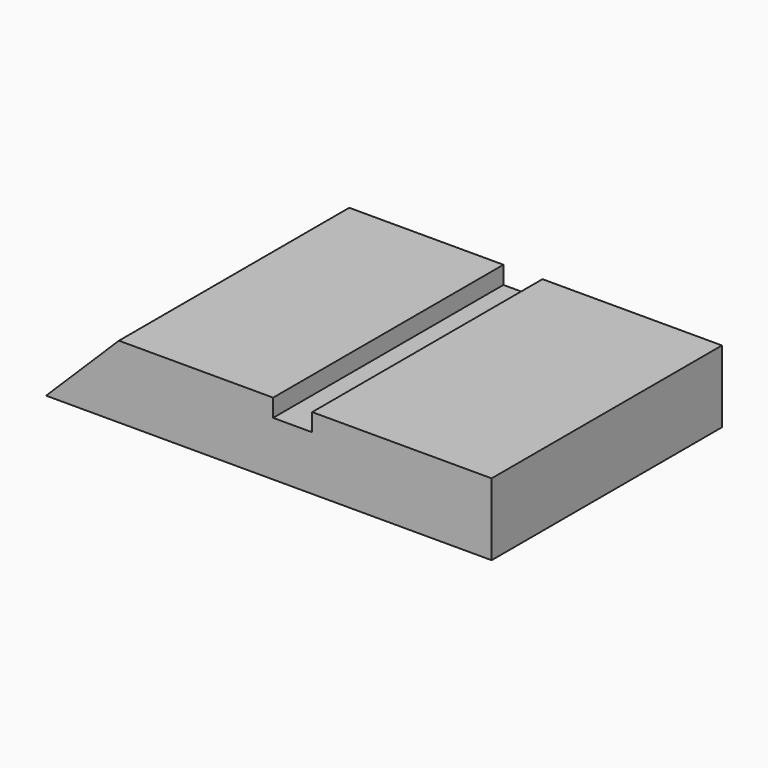
from build123d import *

# Parameters (mm, degrees)
F0_W     = 156.9909751415
F0_H     = 101.4308109879
F1_DEPTH = 25.4
F3_DEPTH = 127.8210822493
F4_W     = 13.7669481337
F4_H     = 6.2678030968
F5_DEPTH = 157.0622399449


with BuildPart() as f1:
    # F0 (on Top) → F1 (new body)
    with BuildSketch(Plane.XY):
        with Locations((-1.5058219433, 3.2995529473)):
            Rectangle(F0_W, F0_H)
    extrude(amount=F1_DEPTH)

    # F2 (on face) → F3 (cut)
    with BuildSketch(Plane.XZ.offset(47.4158525467)):
        Polygon((-80.001309514, 25.4), (-80.001309514, 0), (-54.3336644769, 25.4), align=None)
    extrude(amount=-F3_DEPTH, mode=Mode.SUBTRACT)

    # F4 (on face) → F5 (cut)
    with BuildSketch(Plane.XZ.offset(47.4158525467)):
        with Locations((6.8834740669, 22.2660984516)):
            Rectangle(F4_W, F4_H)
    extrude(amount=-F5_DEPTH, mode=Mode.SUBTRACT)


solid = f1.part
